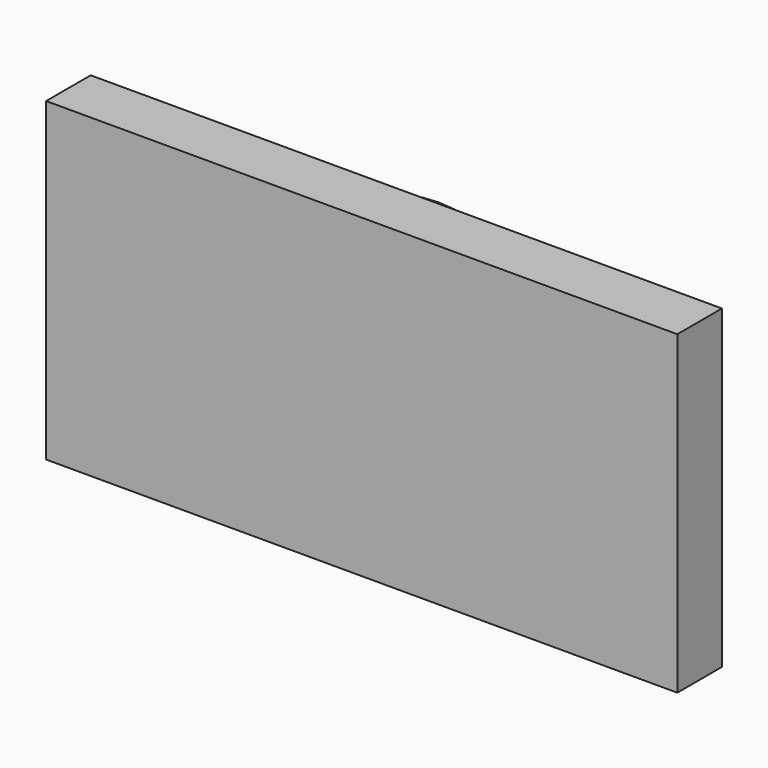
from build123d import *

# Parameters (mm, degrees)
F1_DEPTH = 13.462
F2_R     = 31.75
F3_DEPTH = 9.906


with BuildPart() as f1:
    # F0 (on Front) → F1 (new body)
    with BuildSketch(Plane.XZ):
        Polygon((0.19399, -0.054842), (-76.00601, 38.045158), (-76.00601, -38.154842), align=None)
        Polygon((76.39399, 38.045158), (-76.00601, 38.045158), (0.19399, -0.054842), align=None)
        Polygon((76.39399, -38.154842), (76.39399, 38.045158), (0.19399, -0.054842), align=None)
        Polygon((0.19399, -0.054842), (-76.00601, -38.154842), (76.39399, -38.154842), align=None)
    extrude(amount=F1_DEPTH)

    # F2 (on Front) → F3 (join)
    with BuildSketch(Plane.XZ):
        Circle(F2_R)
    extrude(amount=-F3_DEPTH)


solid = f1.part
